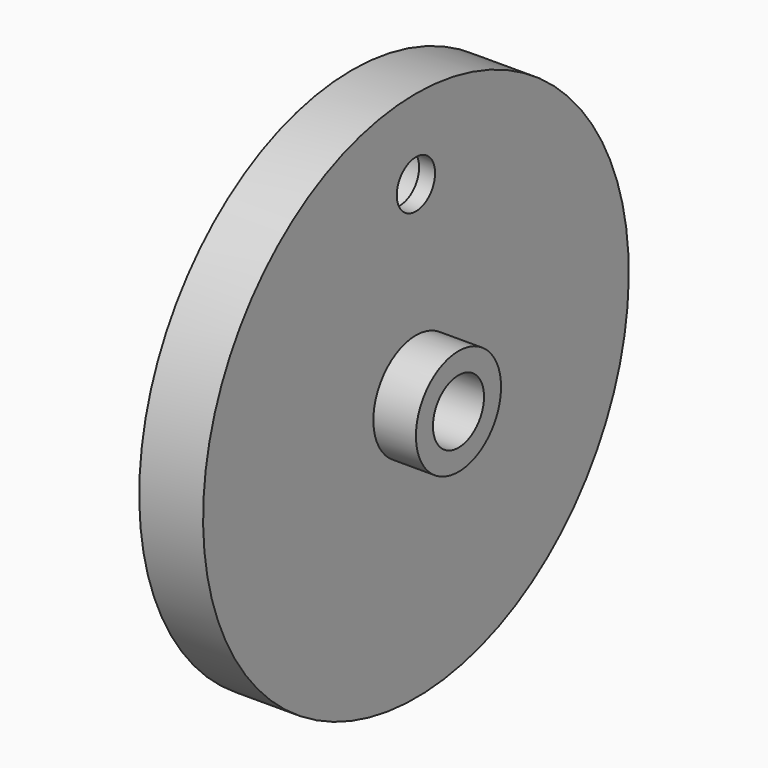
from build123d import *


with BuildPart() as f1:
    # F0 (on Front) → F1 (revolve)
    with BuildSketch(Plane.XZ):
        Polygon((0, 50), (0, 41.5), (9, 41.5), (9, 39.5), (12, 39.5), (12, 50), align=None)
        Polygon((0, 6), (20, 6), (20, 10), (12, 10), (12, 30.5), (9, 30.5), (9, 28.5), (0, 28.5), align=None)
        Polygon((0, 41.5), (0, 35), (12, 35), (12, 39.5), (9, 39.5), (9, 41.5), align=None)
        Polygon((0, 35), (0, 28.5), (9, 28.5), (9, 30.5), (12, 30.5), (12, 35), align=None)
    revolve(axis=Axis((10, 0, 0), (1, 0, 0)))

    # F0 (on Front) → F2 (revolve, cut)
    with BuildSketch(Plane.XZ):
        Polygon((0, 41.5), (0, 35), (12, 35), (12, 39.5), (9, 39.5), (9, 41.5), align=None)
    revolve(axis=Axis((6, 0, 35), (1, 0, 0)), mode=Mode.SUBTRACT)


solid = f1.part
